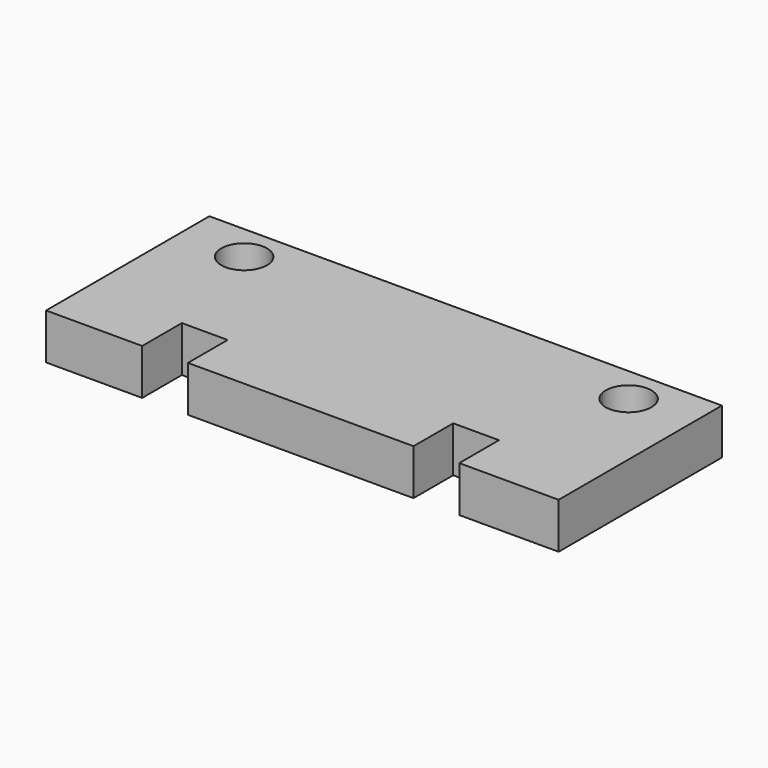
from build123d import *

# Parameters (mm, degrees)
F1_DEPTH = 5
F3_DEPTH = 5
F4_W     = 5
F4_H     = 5.42134
F5_DEPTH = 5


with BuildPart() as f1:
    # F0 (on Top) → F1 (new body)
    with BuildSketch(Plane.XY):
        Polygon((28, -8.65), (28, 8.65), (-28, 8.65), (-28, -8.65), (-28, -13.65), (28, -13.65), align=None)
    extrude(amount=F1_DEPTH)

    # F2 (on face) → F3 (cut)
    with BuildSketch(Plane.XY.offset(5)):
        with BuildLine():
            ThreePointArc((-18.559123, 4.10952), (-18.514825, 4.378148), (-18.5, 4.65))
            ThreePointArc((-18.5, 4.65), (-23.485175, 4.921852), (-18.559123, 4.10952))
        make_face()
        with BuildLine():
            ThreePointArc((23.5, 4.65), (20.728148, 7.135175), (18.559123, 4.10952))
            ThreePointArc((18.559123, 4.10952), (21.271852, 2.164825), (23.5, 4.65))
        make_face()
    extrude(amount=-F3_DEPTH, mode=Mode.SUBTRACT)

    # F4 (on face) → F5 (cut)
    with BuildSketch(Plane.XY.offset(5)):
        with Locations((-15, -10.93933)):
            Rectangle(F4_W, F4_H)
        with Locations((14.643573, -10.93933)):
            Rectangle(F4_W, F4_H)
    extrude(amount=-F5_DEPTH, mode=Mode.SUBTRACT)


solid = f1.part
